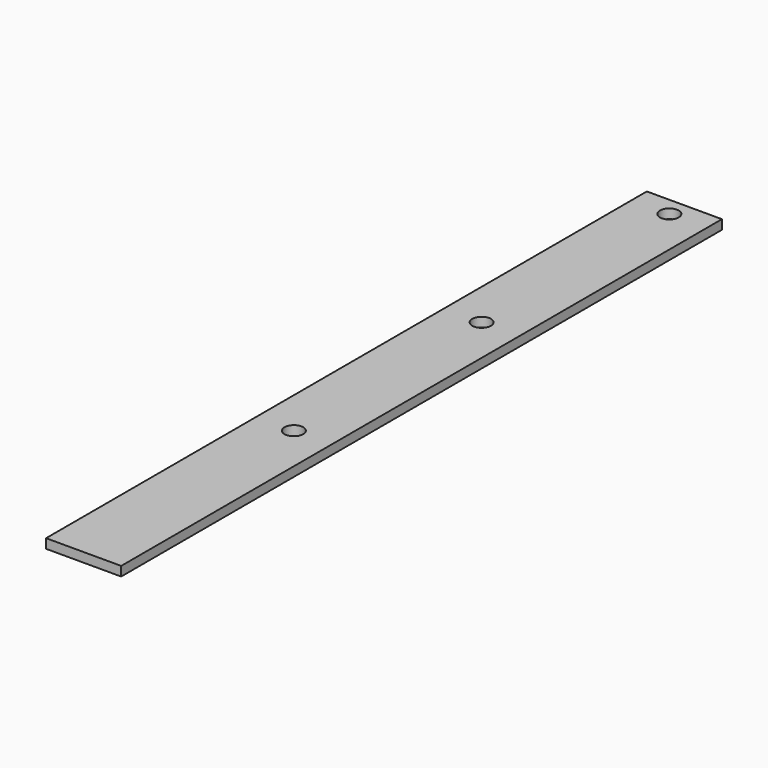
from build123d import *

# Parameters (mm, degrees)
F0_W     = 50.8
F0_H     = 508
F0_R     = 6.35
F1_DEPTH = 6.35


with BuildPart() as f1:
    # F0 (on Top) → F1 (new body)
    with BuildSketch(Plane.XY):
        with Locations((-11.368902, 218.903733)):
            Rectangle(F0_W, F0_H)
        with Locations((-11.368902, 142.703733)):
            Circle(F0_R, mode=Mode.SUBTRACT)
        with Locations((-11.368902, 301.453733)):
            Circle(F0_R, mode=Mode.SUBTRACT)
        with Locations((-11.368902, 460.203733)):
            Circle(F0_R, mode=Mode.SUBTRACT)
    extrude(amount=F1_DEPTH)


solid = f1.part
